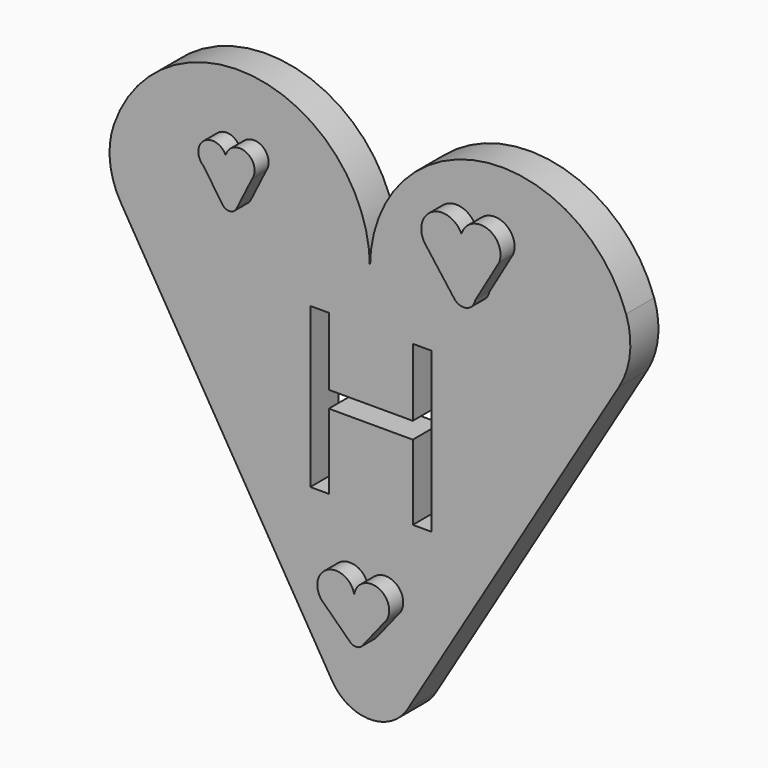
from build123d import *

# Parameters (mm, degrees)
F1_DEPTH = 5.08
F3_DEPTH = 2.54


with BuildPart() as f1:
    # F0 (on Front) → F1 (new body)
    with BuildSketch(Plane.XZ):
        with BuildLine():
            ThreePointArc((36.0574860958, -3.4041898403), (37.6237458991, 1.2819140519), (37.0658548873, 6.1912416105))
            ThreePointArc((37.0658548873, 6.1912416105), (15.9114920426, 18.7896851438), (0, 0))
            ThreePointArc((0, 0), (-15.9114920426, 18.7896851438), (-37.0658548873, 6.1912416105))
            ThreePointArc((-37.0658548873, 6.1912416105), (-37.6237458991, 1.2819140519), (-36.0574860958, -3.4041898403))
            Line((-36.0574860958, -3.4041898403), (-5.4450800783, -54.4248665362))
            ThreePointArc((-5.4450800783, -54.4248665362), (0, -57.5078184892), (5.4450800783, -54.4248665362))
            Line((5.4450800783, -54.4248665362), (36.0574860958, -3.4041898403))
        make_face()
        Polygon((8.8775694707, -7.6457064603), (8.8775694707, -30.7146664709), (6.1965412883, -30.7146664709), (6.1965412883, -19.8592792915), (-5.9564433354, -19.8592792915), (-5.9564433354, -30.7146664709), (-8.6374715178, -30.7146664709), (-8.6374715178, -7.6457064603), (-5.9564433354, -7.6457064603), (-5.9564433354, -17.4609960774), (6.1965412883, -17.4609960774), (6.1965412883, -7.6457064603), align=None, mode=Mode.SUBTRACT)
    extrude(amount=F1_DEPTH)

    # F2 (on face) → F3 (join)
    with BuildSketch(Plane.XZ.offset(5.08)):
        with BuildLine():
            ThreePointArc((4.0135957961, -42.9156825927), (3.4697843517, -38.8100018767), (-0.2558416024, -40.6188844818))
            ThreePointArc((-0.2558416024, -40.6188844818), (-4.2951963256, -38.8570498508), (-4.5797577389, -43.2547165786))
            Line((-4.5797577389, -43.2547165786), (-0.8440466673, -46.8867695822))
            ThreePointArc((-0.8440466673, -46.8867695822), (0.0773147032, -47.2269785686), (0.9478044693, -46.7721198031))
            Line((0.9478044693, -46.7721198031), (4.0135957961, -42.9156825927))
        make_face()
        with BuildLine():
            ThreePointArc((20.7469986095, 8.5107093396), (18.9506843874, 12.2523134557), (15.2743776915, 10.3258879514))
            ThreePointArc((15.2743776915, 10.3258879514), (10.8884034591, 11.6753417762), (10.1780788442, 7.1417742478))
            Line((10.1780788442, 7.1417742478), (14.230393121, 1.7562222549))
            ThreePointArc((14.230393121, 1.7562222549), (15.9774408389, 1.1327705758), (17.2386550324, 2.4929935292))
            Line((17.2386550324, 2.4929935292), (20.7469986095, 8.5107093396))
        make_face()
        with BuildLine():
            ThreePointArc((-15.0549625712, 7.4408553073), (-15.8788156154, 10.6122074591), (-18.8651549438, 9.2638804494))
            ThreePointArc((-18.8651549438, 9.2638804494), (-22.0074043435, 10.0708263721), (-22.0279623721, 6.8266823587))
            Line((-22.0279623721, 6.8266823587), (-19.3354653916, 2.851523468))
            ThreePointArc((-19.3354653916, 2.851523468), (-18.2623978414, 2.3275004132), (-17.2688172647, 2.9899743876))
            Line((-17.2688172647, 2.9899743876), (-15.0549625712, 7.4408553073))
        make_face()
    extrude(amount=F3_DEPTH)


solid = f1.part
